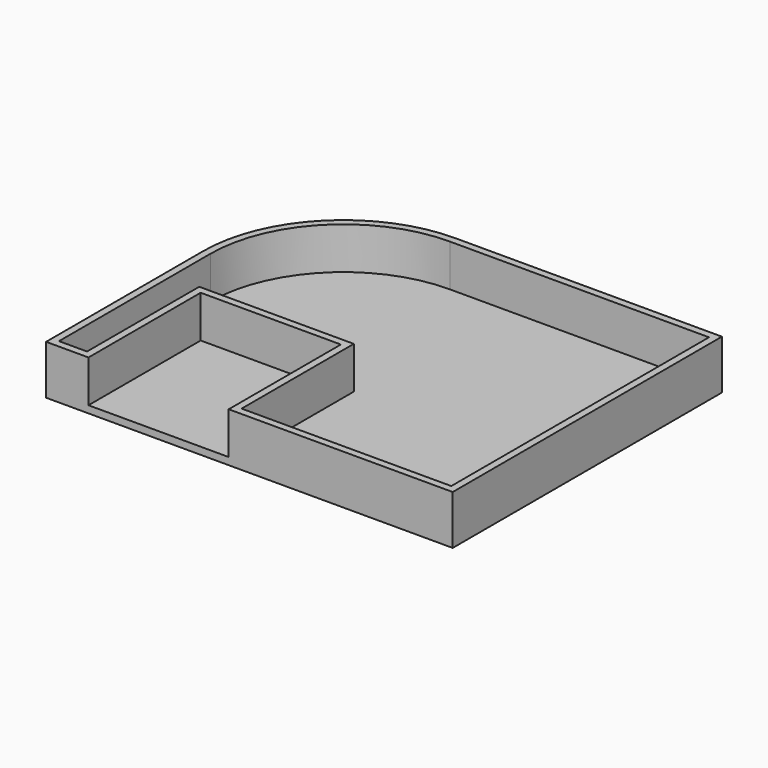
from build123d import *

# Parameters (mm, degrees)
F1_DEPTH = 3.2512
F3_DEPTH = 19.05


with BuildPart() as f1:
    # F0 (on Top) → F1 (new body)
    with BuildSketch(Plane.XY):
        with BuildLine():
            Line((92.075, 76.2), (-28.575, 76.2))
            ThreePointArc((-28.575, 76.2), (-73.476281, 57.601281), (-92.075, 12.7))
            Line((-92.075, 12.7), (-92.075, -76.2))
            Line((-92.075, -76.2), (92.075, -76.2))
            Line((92.075, -76.2), (92.075, 76.2))
        make_face()
    extrude(amount=F1_DEPTH)

    # F2 (on face) → F3 (join)
    with BuildSketch(Plane.XY.offset(3.2512)):
        with BuildLine():
            Line((-72.8726, -76.2), (-72.8726, -12.7))
            Line((-72.8726, -12.7), (-9.3726, -12.7))
            Line((-9.3726, -12.7), (-9.3726, -76.2))
            Line((-9.3726, -76.2), (92.075, -76.2))
            Line((92.075, -76.2), (92.075, 76.2))
            Line((92.075, 76.2), (-28.575, 76.2))
            ThreePointArc((-28.575, 76.2), (-73.476281, 57.601281), (-92.075, 12.7))
            Line((-92.075, 12.7), (-92.075, -76.2))
            Line((-92.075, -76.2), (-72.8726, -76.2))
        make_face()
        with BuildLine():
            Line((-28.575, 72.9488), (88.8238, 72.9488))
            Line((88.8238, 72.9488), (88.8238, -72.9488))
            Line((88.8238, -72.9488), (-6.1214, -72.9488))
            Line((-6.1214, -72.9488), (-6.1214, -9.4488))
            Line((-6.1214, -9.4488), (-76.1238, -9.4488))
            Line((-76.1238, -9.4488), (-76.1238, -72.9488))
            Line((-76.1238, -72.9488), (-88.8238, -72.9488))
            Line((-88.8238, -72.9488), (-88.8238, 12.7))
            ThreePointArc((-88.8238, 12.7), (-71.177335, 55.302335), (-28.575, 72.9488))
        make_face(mode=Mode.SUBTRACT)
    extrude(amount=F3_DEPTH)


solid = f1.part
